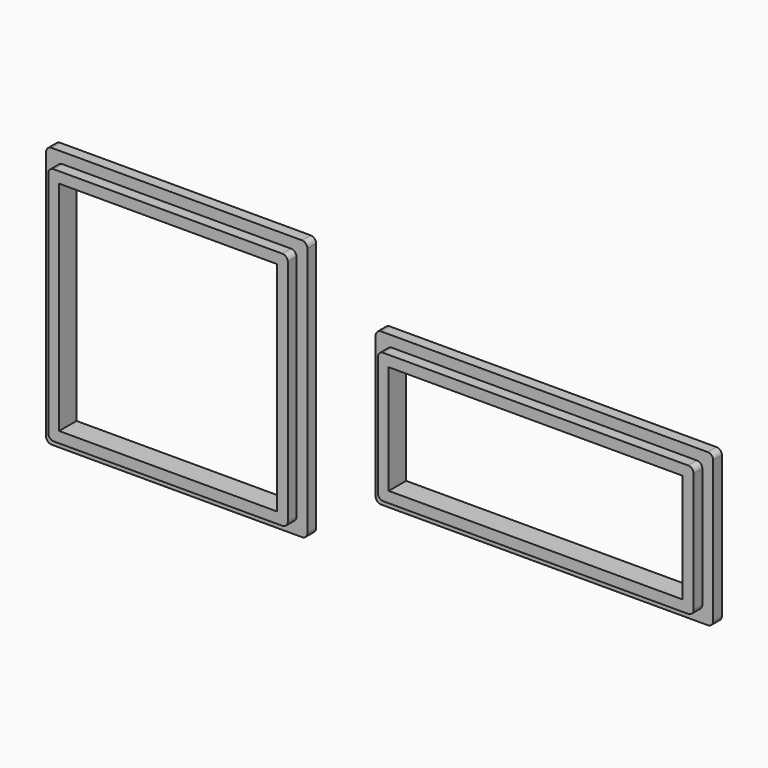
from build123d import *

# Parameters (mm, degrees)
F1_W     = 24
F1_H     = 24
F1_W_2   = 20
F1_H_2   = 20
F2_DEPTH = 2
F1_W_3   = 31
F1_H_3   = 14
F1_W_4   = 27
F1_H_4   = 10
F3_W     = 24
F3_H     = 24
F3_W_2   = 22
F3_H_2   = 22
F3_W_3   = 31
F3_H_3   = 14
F3_W_4   = 29
F3_H_4   = 12
F4_DEPTH = 1
F5_R     = 0.5
F5_2_R   = 0.5


with BuildPart() as f2:
    # F1 (on offset) → F2 (new body)
    with BuildSketch(Plane.XZ.offset(1)):
        Rectangle(F1_W, F1_H)
        Rectangle(F1_W_2, F1_H_2, mode=Mode.SUBTRACT)
    extrude(amount=F2_DEPTH)


with BuildPart() as f2b:
    # F1 (on offset) → F2, piece 2 (new body)
    with BuildSketch(Plane.XZ.offset(1)):
        with Locations((33.7672270834, 0)):
            Rectangle(F1_W_3, F1_H_3)
        with Locations((33.7672270834, 0)):
            Rectangle(F1_W_4, F1_H_4, mode=Mode.SUBTRACT)
    extrude(amount=F2_DEPTH)


with BuildPart() as f4_tool:
    # F3 (on face) → F4 (new body)
    with BuildSketch(Plane.XZ.offset(3)):
        Rectangle(F3_W, F3_H)
        Rectangle(F3_W_2, F3_H_2, mode=Mode.SUBTRACT)
        with Locations((33.7672270834, 0)):
            Rectangle(F3_W_3, F3_H_3)
        with Locations((33.7672270834, 0)):
            Rectangle(F3_W_4, F3_H_4, mode=Mode.SUBTRACT)
    extrude(amount=-F4_DEPTH)


with BuildPart() as f2_1:
    add(f2.part)

    # F4: cut by f4_tool
    add(f4_tool.part, mode=Mode.SUBTRACT)

    # F5
    f5_edges = [f2_1.edges().sort_by_distance(p)[0] for p in [
        (-12, -1.5, 12),
        (-11, -2.5, 11),
        (-11, -2.5, -11),
        (-12, -1.5, -12),
        (11, -2.5, -11),
        (12, -1.5, -12),
        (12, -1.5, 12),
        (11, -2.5, 11),
    ]]
    fillet(f5_edges, radius=F5_R)


with BuildPart() as f2b_1:
    add(f2b.part)

    # F4: cut by f4_tool
    add(f4_tool.part, mode=Mode.SUBTRACT)

    # F5#2
    f5_2_edges = [f2b_1.edges().sort_by_distance(p)[0] for p in [
        (18.267227, -1.5, -7),
        (19.267227, -2.5, -6),
        (18.267227, -1.5, 7),
        (19.267227, -2.5, 6),
        (48.267227, -2.5, -6),
        (49.267227, -1.5, -7),
        (49.267227, -1.5, 7),
        (48.267227, -2.5, 6),
    ]]
    fillet(f5_2_edges, radius=F5_2_R)


solid = Compound([f2_1.part, f2b_1.part])
